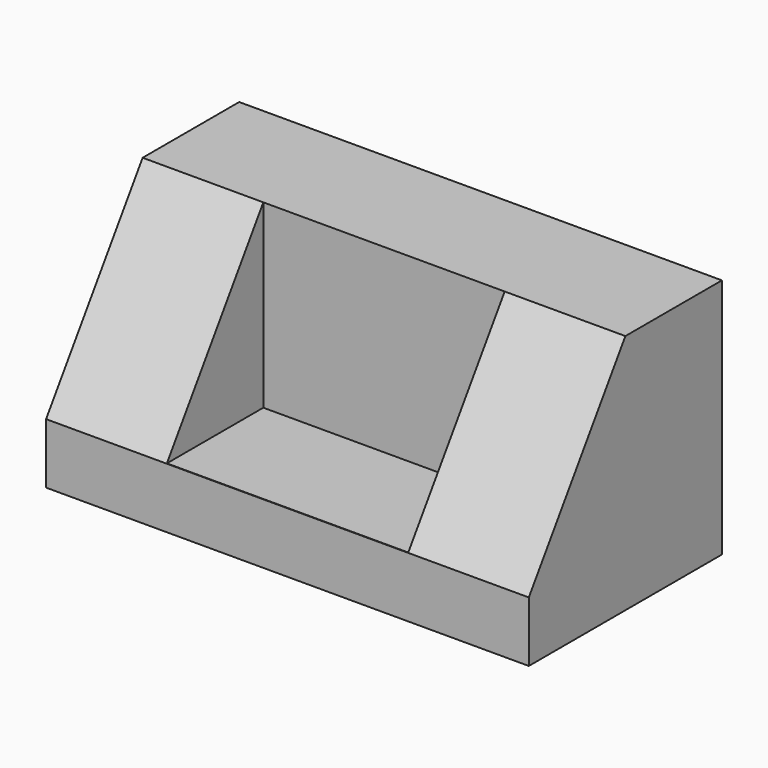
from build123d import *

# Parameters (mm, degrees)
F0_W     = 203.2
F0_H     = 101.6
F1_DEPTH = 101.6
F2_SIZE2 = 76.2
F2_SIZE  = 50.8
F3_W     = 101.6
F3_H     = 76.2
F4_DEPTH = 50.8


with BuildPart() as f1:
    # F0 (on Front) → F1 (new body)
    with BuildSketch(Plane.XZ):
        with Locations((3.265716, -39.823574)):
            Rectangle(F0_W, F0_H)
    extrude(amount=-F1_DEPTH)

    # F2
    f2_edges = [f1.edges().sort_by_distance(p)[0] for p in [
        (3.265716, 0, 10.976426),
    ]]
    chamfer(f2_edges, length=F2_SIZE, length2=F2_SIZE2)

    # F3 (on Front) → F4 (cut)
    with BuildSketch(Plane.XZ):
        with Locations((3.265716, -27.022086)):
            Rectangle(F3_W, F3_H)
    extrude(amount=-F4_DEPTH, mode=Mode.SUBTRACT)


solid = f1.part
